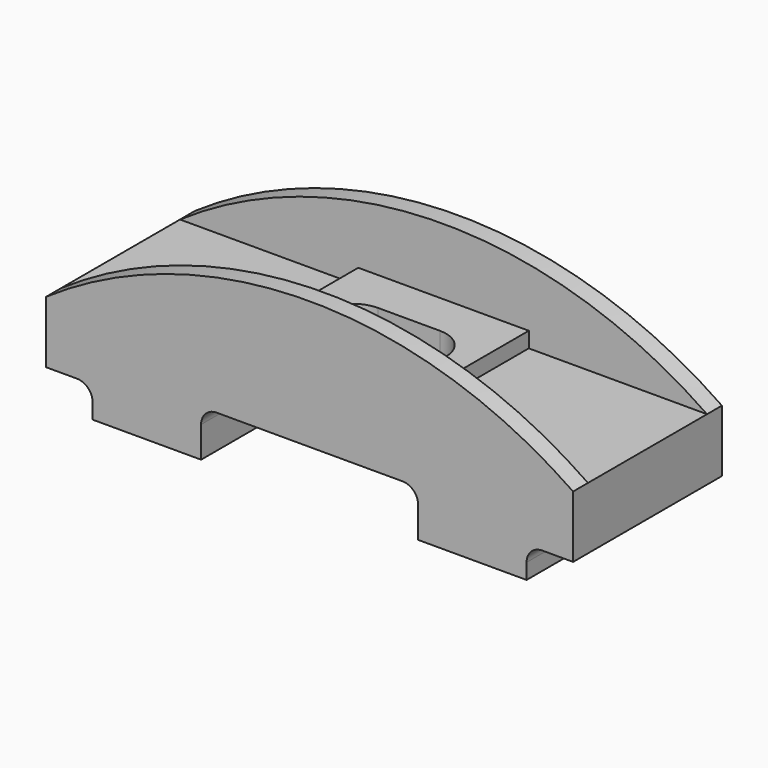
from build123d import *

# Parameters (mm, degrees)
F0_W      = 170
F0_H      = 60
F1_DEPTH  = 30
F3_DEPTH  = 30.001
F5_DEPTH  = 60.001
F6_W      = 55
F6_H      = 48
F7_DEPTH  = 5
F8_DEPTH  = 25
F10_DEPTH = 60.001
F13_DEPTH = 6
F14_DEPTH = 6
F17_DEPTH = 6


with BuildPart() as f1:
    # F0 (on Top) → F1 (new body)
    with BuildSketch(Plane.XY):
        Rectangle(F0_W, F0_H)
    extrude(amount=F1_DEPTH)

    # F2 (on face) → F3 (cut, through all)
    with BuildSketch(Plane.XY.offset(30)):
        with BuildLine():
            ThreePointArc((0, 0), (2.9289321881, -7.0710678119), (10, -10))
            Line((10, -10), (10, 10))
            ThreePointArc((10, 10), (2.9289321881, 7.0710678119), (0, 0))
        make_face()
        with BuildLine():
            Line((-10, -10), (10, -10))
            ThreePointArc((10, -10), (2.9289321881, -7.0710678119), (0, 0))
            ThreePointArc((0, 0), (-2.9289321881, -7.0710678119), (-10, -10))
        make_face()
        with BuildLine():
            Line((10, 10), (10, -10))
            ThreePointArc((10, -10), (17.0710678119, -7.0710678119), (20, 0))
            ThreePointArc((20, 0), (17.0710678119, 7.0710678119), (10, 10))
        make_face()
        with BuildLine():
            ThreePointArc((-10, 10), (-20, 0), (-10, -10))
            Line((-10, -10), (-10, 10))
        make_face()
        with BuildLine():
            Line((-10, 10), (-10, -10))
            ThreePointArc((-10, -10), (-2.9289321881, -7.0710678119), (0, 0))
            ThreePointArc((0, 0), (-2.9289321881, 7.0710678119), (-10, 10))
        make_face()
        with BuildLine():
            ThreePointArc((0, 0), (2.9289321881, 7.0710678119), (10, 10))
            Line((10, 10), (-10, 10))
            ThreePointArc((-10, 10), (-2.9289321881, 7.0710678119), (0, 0))
        make_face()
    extrude(amount=-F3_DEPTH, mode=Mode.SUBTRACT)

    # F4 (on face) → F5 (cut, through all)
    with BuildSketch(Plane(origin=(0, 30, 0), x_dir=(-1, 0, 0), z_dir=(0, 1, 0))):
        with BuildLine():
            Line((-35, 0), (0, 0))
            Line((0, 0), (35, 0))
            Line((35, 0), (35, 10))
            ThreePointArc((35, 10), (33.5355339059, 13.5355339059), (30, 15))
            Line((30, 15), (-30, 15))
            ThreePointArc((-30, 15), (-33.5355339059, 13.5355339059), (-35, 10))
            Line((-35, 10), (-35, 0))
        make_face()
    extrude(amount=-F5_DEPTH, mode=Mode.SUBTRACT)

    # F6 (on face) → F7 (join)
    with BuildSketch(Plane.XY.offset(30)):
        Rectangle(F6_W, F6_H)
    extrude(amount=F7_DEPTH)

    # F8 (cut): a face of the model
    f8_faces = [f1.faces().sort_by_distance(p)[0] for p in [
        (0, 0, 30),
    ]]
    extrude(f8_faces, amount=-F8_DEPTH, mode=Mode.SUBTRACT)

    # F9 (on face) → F10 (cut, through all)
    with BuildSketch(Plane(origin=(0, 30, 0), x_dir=(-1, 0, 0), z_dir=(0, 1, 0))):
        with BuildLine():
            Line((85, 0), (85, 10))
            Line((85, 10), (75, 10))
            ThreePointArc((75, 10), (71.4644660941, 8.5355339059), (70, 5))
            Line((70, 5), (70, 0))
            Line((70, 0), (85, 0))
        make_face()
        with BuildLine():
            Line((-85, 10), (-85, 0))
            Line((-85, 0), (-70, 0))
            Line((-70, 0), (-70, 5))
            ThreePointArc((-70, 5), (-71.4644660941, 8.5355339059), (-75, 10))
            Line((-75, 10), (-85, 10))
        make_face()
    extrude(amount=-F10_DEPTH, mode=Mode.SUBTRACT)

    # F12 (on face) → F13 (join)
    with BuildSketch(Plane.XZ.offset(30)):
        with BuildLine():
            Line((-85, 30), (85, 30))
            ThreePointArc((85, 30), (0, 56.4079290569), (-85, 30))
        make_face()
    extrude(amount=-F13_DEPTH)

    # F16 (on face) → F17 (join)
    with BuildSketch(Plane(origin=(0, 30, 0), x_dir=(-1, 0, 0), z_dir=(0, 1, 0))):
        with BuildLine():
            Line((-85, 30), (85, 30))
            ThreePointArc((85, 30), (0, 56.4079290569), (-85, 30))
        make_face()
    extrude(amount=-F17_DEPTH)


with BuildPart() as f14:
    # F11 (on face) → F14 (new body)
    with BuildSketch(Plane(origin=(0, 30, 0), x_dir=(-1, 0, 0), z_dir=(0, 1, 0))):
        with BuildLine():
            Line((-85, 30), (85, 30))
            ThreePointArc((85, 30), (0, 56.4079290569), (-85, 30))
        make_face()
    extrude(amount=-F14_DEPTH)


solid = f1.part
